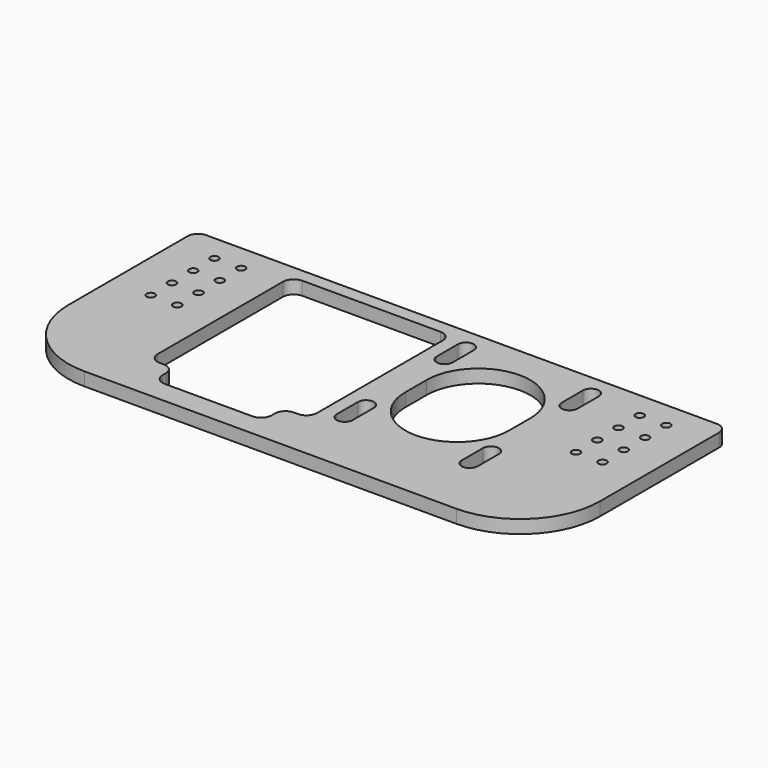
from build123d import *

# Parameters (mm, degrees)
SKETCH_W        = 200
SKETCH_H        = 90
SKETCH_R        = 1.5625
SKETCH_W_2      = 60
SKETCH_H_2      = 67
PAD_DEPTH       = 5
SKETCH002_W     = 41
SKETCH002_H     = 9.5
POCKET_DEPTH    = 5.001
SKETCH003_R     = 1.5625
POCKET001_DEPTH = 5.001
FILLET_R        = 30
FILLET001_R     = 4
FILLET002_R     = 4
FILLET003_R     = 4


with BuildPart() as part:
    # Sketch → Pad (new body)
    with BuildSketch(Plane.XY):
        with Locations((100, -45)):
            Rectangle(SKETCH_W, SKETCH_H)
        with Locations((185, -30)):
            Circle(SKETCH_R, mode=Mode.SUBTRACT)
        with Locations((185, -10)):
            Circle(SKETCH_R, mode=Mode.SUBTRACT)
        with Locations((175, -20)):
            Circle(SKETCH_R, mode=Mode.SUBTRACT)
        with Locations((175, -40)):
            Circle(SKETCH_R, mode=Mode.SUBTRACT)
        with Locations((25, -40)):
            Circle(SKETCH_R, mode=Mode.SUBTRACT)
        with Locations((25, -20)):
            Circle(SKETCH_R, mode=Mode.SUBTRACT)
        with Locations((15, -30)):
            Circle(SKETCH_R, mode=Mode.SUBTRACT)
        with Locations((15, -10)):
            Circle(SKETCH_R, mode=Mode.SUBTRACT)
        with Locations((70, -38.5)):
            Rectangle(SKETCH_W_2, SKETCH_H_2, mode=Mode.SUBTRACT)
        with BuildLine():
            ThreePointArc((158.0113, -7.9887), (155.0113, -4.9887), (152.0113, -7.9887))
            Line((152.0113, -7.9887), (152.0113, -17.9887))
            ThreePointArc((152.0113, -17.9887), (155.0113, -20.9887), (158.0113, -17.9887))
            Line((158.0113, -7.9887), (158.0113, -17.9887))
        make_face(mode=Mode.SUBTRACT)
        with BuildLine():
            ThreePointArc((151, -31.5), (131.5, -12), (112, -31.5))
            Line((112, -31.5), (112, -41.5))
            ThreePointArc((112, -41.5), (131.5, -61), (151, -41.5))
            Line((151, -31.5), (151, -41.5))
        make_face(mode=Mode.SUBTRACT)
        with BuildLine():
            ThreePointArc((158.0113, -55.0113), (155.0113, -52.0113), (152.0113, -55.0113))
            Line((152.0113, -55.0113), (152.0113, -65.0113))
            ThreePointArc((152.0113, -65.0113), (155.0113, -68.0113), (158.0113, -65.0113))
            Line((158.0113, -55.0113), (158.0113, -65.0113))
        make_face(mode=Mode.SUBTRACT)
        with BuildLine():
            ThreePointArc((110.9887, -55.0113), (107.9887, -52.0113), (104.9887, -55.0113))
            Line((104.9887, -55.0113), (104.9887, -65.0113))
            ThreePointArc((104.9887, -65.0113), (107.9887, -68.0113), (110.9887, -65.0113))
            Line((110.9887, -55.0113), (110.9887, -65.0113))
        make_face(mode=Mode.SUBTRACT)
        with BuildLine():
            ThreePointArc((110.9887, -7.9887), (107.9887, -4.9887), (104.9887, -7.9887))
            Line((104.9887, -7.9887), (104.9887, -17.9887))
            ThreePointArc((104.9887, -17.9887), (107.9887, -20.9887), (110.9887, -17.9887))
            Line((110.9887, -7.9887), (110.9887, -17.9887))
        make_face(mode=Mode.SUBTRACT)
    extrude(amount=PAD_DEPTH)

    # Sketch002 → Pocket (cut, through all)
    with BuildSketch(Plane.XY.offset(5)):
        with Locations((70, -76.75)):
            Rectangle(SKETCH002_W, SKETCH002_H)
    extrude(amount=-POCKET_DEPTH, mode=Mode.SUBTRACT)

    # Sketch003 → Pocket001 (cut, through all)
    with BuildSketch(Plane.XY.offset(5)):
        with Locations((25, -10)):
            Circle(SKETCH003_R)
        with Locations((15, -20)):
            Circle(SKETCH003_R)
        with Locations((15, -40)):
            Circle(SKETCH003_R)
        with Locations((25, -30)):
            Circle(SKETCH003_R)
        with Locations((175, -10)):
            Circle(SKETCH003_R)
        with Locations((185, -20)):
            Circle(SKETCH003_R)
        with Locations((185, -40)):
            Circle(SKETCH003_R)
        with Locations((175, -30)):
            Circle(SKETCH003_R)
    extrude(amount=-POCKET001_DEPTH, mode=Mode.SUBTRACT)

    # Fillet
    fillet_edges = [part.edges().sort_by_distance(p)[0] for p in [
        (200, -90, 2.5),
        (0, -90, 2.5),
    ]]
    fillet(fillet_edges, radius=FILLET_R)

    # Fillet001
    fillet001_edges = [part.edges().sort_by_distance(p)[0] for p in [
        (40, -72, 2.5),
        (49.5, -81.5, 2.5),
        (49.5, -72, 2.5),
        (100, -72, 2.5),
        (90.5, -72, 2.5),
        (90.5, -81.5, 2.5),
    ]]
    fillet(fillet001_edges, radius=FILLET001_R)

    # Fillet002
    fillet002_edges = [part.edges().sort_by_distance(p)[0] for p in [
        (0, 0, 2.5),
        (200, 0, 2.5),
    ]]
    fillet(fillet002_edges, radius=FILLET002_R)

    # Fillet003
    fillet003_edges = [part.edges().sort_by_distance(p)[0] for p in [
        (40, -5, 2.5),
        (100, -5, 2.5),
    ]]
    fillet(fillet003_edges, radius=FILLET003_R)


solid = part.part
